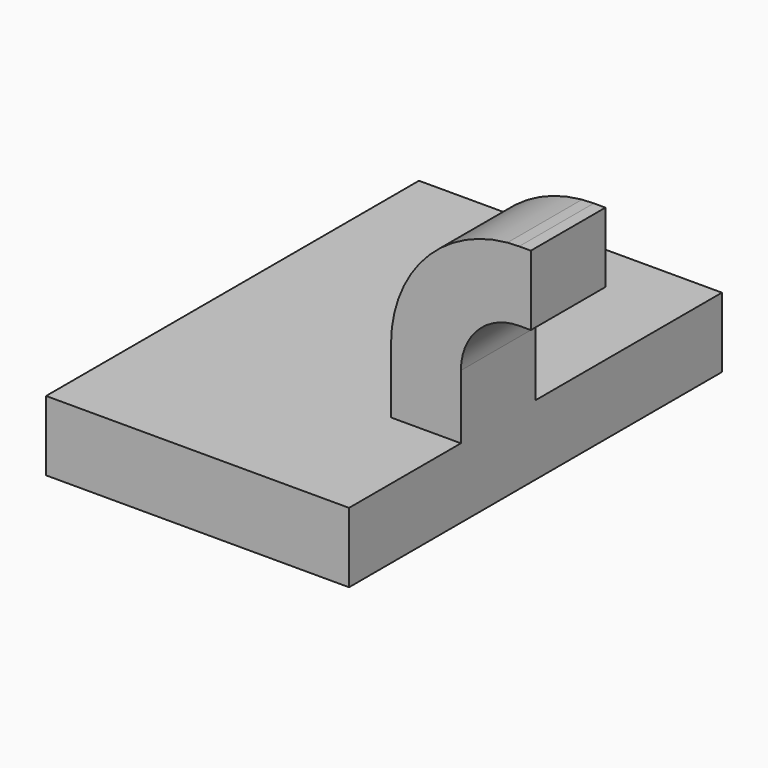
from build123d import *

# Parameters (mm, degrees)
F1_DEPTH = 63.5
F2_DEPTH = 25.4


with BuildPart() as f1:
    # F0 (on Front) → F1 (new body, symmetric)
    with BuildSketch(Plane.XZ):
        Polygon((41.275, -9.525), (41.275, 9.525), (22.225, 9.525), (-41.275, 9.525), (-41.275, -9.525), align=None)
    extrude(amount=F1_DEPTH, both=True)

    # F0 (on Front) → F2 (join)
    with BuildSketch(Plane.XZ):
        with BuildLine():
            Line((22.225, 9.525), (41.275, 9.525))
            Line((41.275, 9.525), (41.275, 27.0002))
            ThreePointArc((41.275, 27.0002), (45.92468, 38.22552), (57.15, 42.8752))
            Line((57.15, 42.8752), (60.325, 42.8752))
            Line((60.325, 42.8752), (60.325, 61.9252))
            Line((60.325, 61.9252), (57.15, 61.9252))
            add(Edge.make_bspline(
                [(53.938805, 61.777259), (55.022101, 61.84726), (56.092999, 61.896827), (57.15, 61.9252)],
                knots=[108.524772, 108.524772, 108.524772, 108.524772, 111.504536, 111.504536, 111.504536, 111.504536], degree=3))
            ThreePointArc((53.938805, 61.777259), (31.343929, 50.533205), (22.225, 27.0002))
            Line((22.225, 27.0002), (22.225, 9.525))
        make_face()
    extrude(amount=F2_DEPTH)


solid = f1.part
